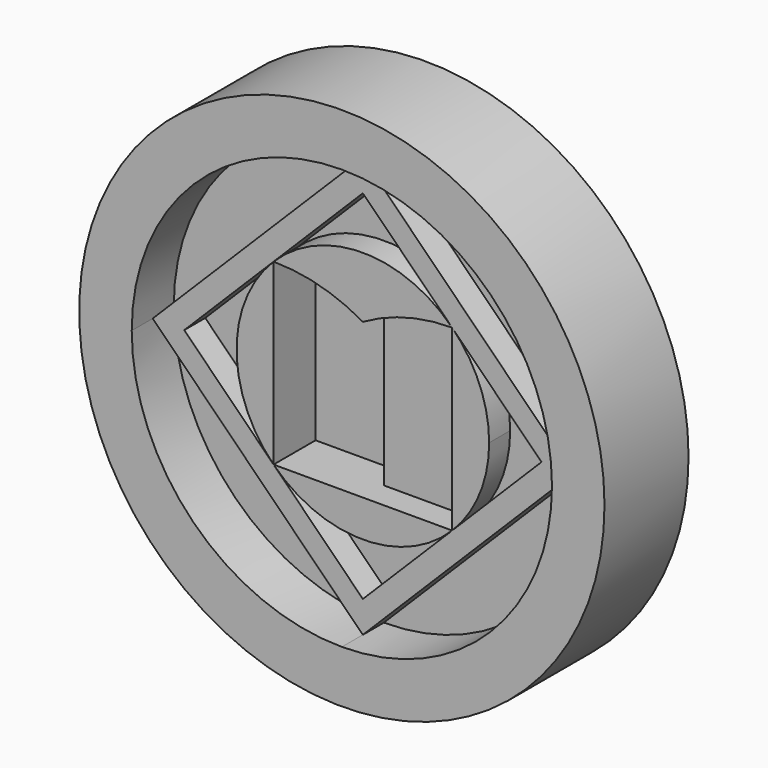
from build123d import *

# Parameters (mm, degrees)
F0_R     = 63.5
F1_DEPTH = 25.4
F2_DEPTH = 12.7
F3_DEPTH = 12.7
F4_DEPTH = 19.05
F5_DEPTH = 19.05
F6_DEPTH = 6.35
F7_DEPTH = 12.7


with BuildPart() as f1:
    # F0 (on Front) → F1 (new body)
    with BuildSketch(Plane.XZ):
        Circle(F0_R)
        with BuildLine():
            ThreePointArc((0, 50.8), (35.921024, 35.921024), (50.8, 0))
            ThreePointArc((50.8, 0), (35.921024, -35.921024), (0, -50.8))
            ThreePointArc((0, -50.8), (-35.921024, -35.921024), (-50.8, 0))
            ThreePointArc((-50.8, 0), (-35.921024, 35.921024), (0, 50.8))
        make_face(mode=Mode.SUBTRACT)
    extrude(amount=F1_DEPTH)

    # F0 (on Front) → F2 (join)
    with BuildSketch(Plane.XZ):
        with BuildLine():
            Line((-50.8, 0), (0, 50.8))
            ThreePointArc((0, 50.8), (-35.921024, 35.921024), (-50.8, 0))
        make_face()
        with BuildLine():
            ThreePointArc((-50.8, 0), (-35.921024, -35.921024), (0, -50.8))
            Line((0, -50.8), (-50.8, 0))
        make_face()
        with BuildLine():
            ThreePointArc((0, -50.8), (35.921024, -35.921024), (50.8, 0))
            Line((50.8, 0), (0, -50.8))
        make_face()
        with BuildLine():
            Line((0, 50.8), (50.8, 0))
            ThreePointArc((50.8, 0), (35.921024, 35.921024), (0, 50.8))
        make_face()
    extrude(amount=F2_DEPTH)


with BuildPart() as f3:
    # F0 (on Front) → F3 (new body)
    with BuildSketch(Plane.XZ):
        with BuildLine():
            Line((-21.59, 21.59), (-43.18, 0))
            Line((-43.18, 0), (-21.59, -21.59))
            ThreePointArc((-21.59, -21.59), (-30.532871, 0), (-21.59, 21.59))
        make_face()
        with BuildLine():
            Line((-21.59, -21.59), (0, -43.18))
            Line((0, -43.18), (21.59, -21.59))
            ThreePointArc((21.59, -21.59), (0, -30.532871), (-21.59, -21.59))
        make_face()
        with BuildLine():
            Line((21.59, -21.59), (43.18, 0))
            Line((43.18, 0), (21.59, 21.59))
            ThreePointArc((21.59, 21.59), (28.208694, 11.684424), (30.532871, 0))
            ThreePointArc((30.532871, 0), (28.208694, -11.684424), (21.59, -21.59))
        make_face()
        with BuildLine():
            Line((21.59, 21.59), (0, 43.18))
            Line((0, 43.18), (-21.59, 21.59))
            ThreePointArc((-21.59, 21.59), (0, 30.532871), (21.59, 21.59))
        make_face()
    extrude(amount=F3_DEPTH)


with BuildPart() as f4:
    # F0 (on Front) → F4 (new body)
    with BuildSketch(Plane.XZ):
        with BuildLine():
            ThreePointArc((0, 15.804977), (10.414194, 20.118677), (21.59, 21.59))
            ThreePointArc((21.59, 21.59), (0, 30.532871), (-21.59, 21.59))
            ThreePointArc((-21.59, 21.59), (-10.414194, 20.118677), (0, 15.804977))
        make_face()
        with BuildLine():
            Line((-21.59, -21.59), (-21.59, 21.59))
            ThreePointArc((-21.59, 21.59), (-30.532871, 0), (-21.59, -21.59))
        make_face()
        with BuildLine():
            ThreePointArc((30.532871, 0), (28.208694, 11.684424), (21.59, 21.59))
            Line((21.59, 21.59), (21.59, -21.59))
            ThreePointArc((21.59, -21.59), (28.208694, -11.684424), (30.532871, 0))
        make_face()
        with BuildLine():
            ThreePointArc((-21.59, -21.59), (0, -30.532871), (21.59, -21.59))
            Line((21.59, -21.59), (0, -21.59))
            Line((0, -21.59), (-21.59, -21.59))
        make_face()
    extrude(amount=F4_DEPTH)


with BuildPart() as f5:
    # F0 (on Front) → F5 (new body)
    with BuildSketch(Plane.XZ):
        Polygon((-50.8, 0), (0, -50.8), (0, -43.18), (-21.59, -21.59), (-43.18, 0), align=None)
        Polygon((0, 43.18), (0, 50.8), (-50.8, 0), (-43.18, 0), (-21.59, 21.59), align=None)
        Polygon((0, -50.8), (50.8, 0), (43.18, 0), (21.59, -21.59), (0, -43.18), align=None)
        Polygon((43.18, 0), (50.8, 0), (0, 50.8), (0, 43.18), (21.59, 21.59), align=None)
    extrude(amount=F5_DEPTH)


with BuildPart() as f6:
    # F0 (on Front) → F6 (new body)
    with BuildSketch(Plane.XZ):
        with BuildLine():
            ThreePointArc((0, 15.804977), (-10.414194, 20.118677), (-21.59, 21.59))
            Line((-21.59, 21.59), (-21.59, -21.59))
            Line((-21.59, -21.59), (0, -21.59))
            Line((0, -21.59), (0, 15.804977))
        make_face()
    extrude(amount=F6_DEPTH)


with BuildPart() as f7:
    # F0 (on Front) → F7 (new body)
    with BuildSketch(Plane.XZ):
        with BuildLine():
            Line((21.59, -21.59), (21.59, 21.59))
            ThreePointArc((21.59, 21.59), (10.414194, 20.118677), (0, 15.804977))
            Line((0, 15.804977), (0, -21.59))
            Line((0, -21.59), (21.59, -21.59))
        make_face()
    extrude(amount=F7_DEPTH)


solid = Compound([f1.part, f3.part, f4.part, f5.part, f6.part, f7.part])
